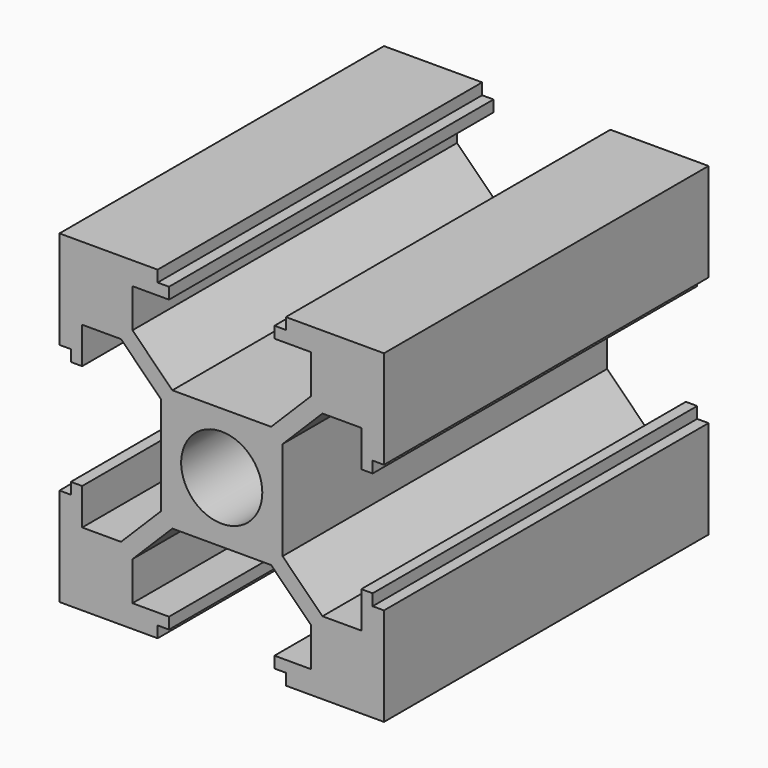
from build123d import *

# Parameters (mm, degrees)
F0_R     = 2.5
F1_DEPTH = 25


with BuildPart() as f1:
    # F0 (on Front) → F1 (new body)
    with BuildSketch(Plane.XZ):
        Polygon((10, 3.95), (10, 10), (3.95, 10), (3.95, 9.3), (3.25, 9.3), (3.25, 8.6), (5.5, 8.6), (5.5, 6.207107), (3.042893, 3.75), (0, 3.75), (-3.042893, 3.75), (-5.5, 6.207107), (-5.5, 8.6), (-3.25, 8.6), (-3.25, 9.3), (-3.95, 9.3), (-3.95, 10), (-10, 10), (-10, 3.95), (-9.3, 3.95), (-9.3, 3.25), (-8.6, 3.25), (-8.6, 5.5), (-6.207107, 5.5), (-3.75, 3.042893), (-3.75, 0), (-3.75, -3.042893), (-6.207107, -5.5), (-8.6, -5.5), (-8.6, -3.25), (-9.3, -3.25), (-9.3, -3.95), (-10, -3.95), (-10, -10), (-3.95, -10), (-3.95, -9.3), (-3.25, -9.3), (-3.25, -8.6), (-5.5, -8.6), (-5.5, -6.207107), (-3.042893, -3.75), (0, -3.75), (3.042893, -3.75), (5.5, -6.207107), (5.5, -8.6), (3.25, -8.6), (3.25, -9.3), (3.95, -9.3), (3.95, -10), (10, -10), (10, -3.95), (9.3, -3.95), (9.3, -3.25), (8.6, -3.25), (8.6, -5.5), (6.207107, -5.5), (3.75, -3.042893), (3.75, 0), (3.75, 3.042893), (6.207107, 5.5), (8.6, 5.5), (8.6, 3.25), (9.3, 3.25), (9.3, 3.95), align=None)
        Circle(F0_R, mode=Mode.SUBTRACT)
    extrude(amount=-F1_DEPTH)


solid = f1.part
